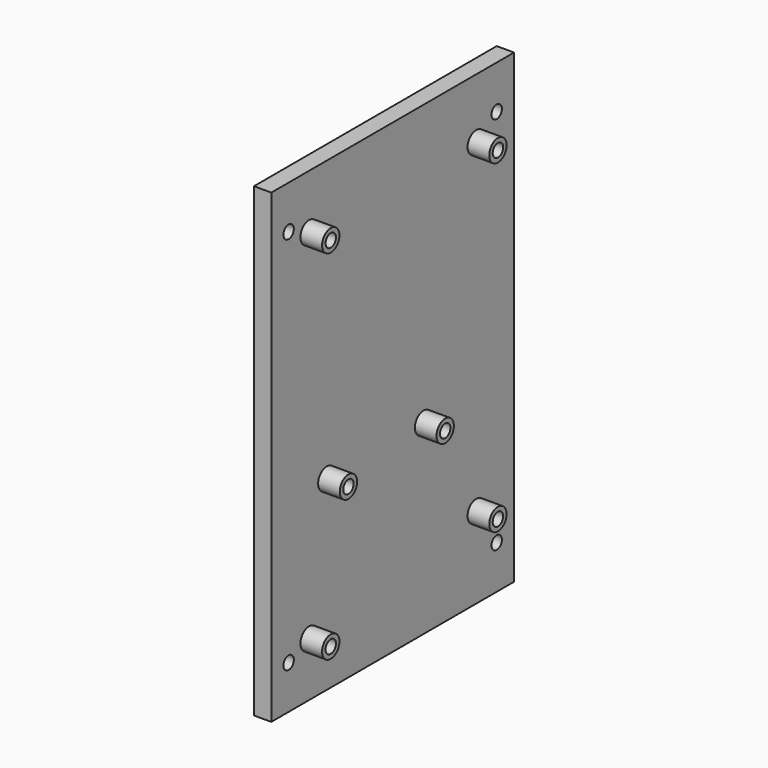
from build123d import *

# Parameters (mm, degrees)
SKETCH010_W     = 70
SKETCH010_H     = 107.5
SKETCH010_R     = 1.5
PAD004_DEPTH    = 4
SKETCH011_R     = 2.5
PAD005_DEPTH    = 5
SKETCH012_R     = 1.5
POCKET001_DEPTH = 4.5


with BuildPart() as part:
    # Sketch010 → Pad004 (new body)
    with BuildSketch(Plane.YZ):
        Rectangle(SKETCH010_W, SKETCH010_H)
        with Locations((-30, 43.75)):
            Circle(SKETCH010_R, mode=Mode.SUBTRACT)
        with Locations((30, 43.75)):
            Circle(SKETCH010_R, mode=Mode.SUBTRACT)
        with Locations((-30, -43.75)):
            Circle(SKETCH010_R, mode=Mode.SUBTRACT)
        with Locations((30, -43.75)):
            Circle(SKETCH010_R, mode=Mode.SUBTRACT)
    extrude(amount=PAD004_DEPTH)

    # Sketch011 (on Face10 of Pad004) → Pad005 (join)
    with BuildSketch(Plane.YZ.offset(4)):
        with Locations((-24.1, 41.25)):
            Circle(SKETCH011_R)
        with Locations((24.1, 39.95)):
            Circle(SKETCH011_R)
        with Locations((-19, -10.85)):
            Circle(SKETCH011_R)
        with Locations((8.9, -10.85)):
            Circle(SKETCH011_R)
        with Locations((24.1, -34.95)):
            Circle(SKETCH011_R)
        with Locations((-24.1, -41.25)):
            Circle(SKETCH011_R)
    extrude(amount=PAD005_DEPTH)

    # Sketch012 (on Face20 of Pad005) → Pocket001 (cut)
    with BuildSketch(Plane.YZ.offset(9)):
        with Locations((-24.1, 41.25)):
            Circle(SKETCH012_R)
        with Locations((24.1, 39.95)):
            Circle(SKETCH012_R)
        with Locations((-19, -10.85)):
            Circle(SKETCH012_R)
        with Locations((8.9, -10.85)):
            Circle(SKETCH012_R)
        with Locations((24.1, -34.95)):
            Circle(SKETCH012_R)
        with Locations((-24.1, -41.25)):
            Circle(SKETCH012_R)
    extrude(amount=-POCKET001_DEPTH, mode=Mode.SUBTRACT)


solid = part.part
